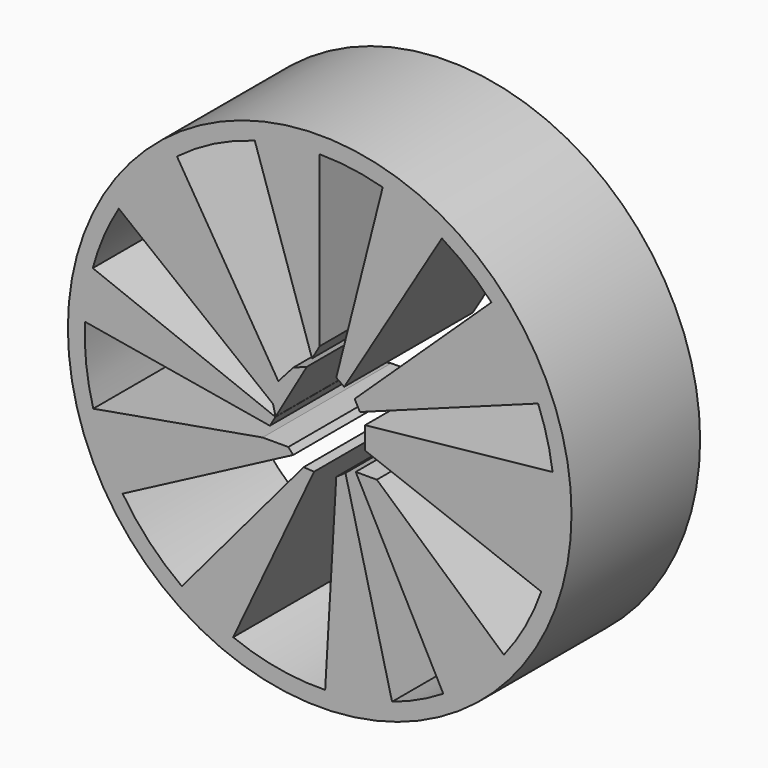
from build123d import *

# Parameters (mm, degrees)
F0_R     = 52.125882
F1_DEPTH = 25.4
F2_DEPTH = 33.274


with BuildPart() as f1:
    # F0 (on Front) → F1 (new body)
    with BuildSketch(Plane.XZ):
        Circle(F0_R)
        with BuildLine():
            ThreePointArc((-29.54728, 38.623906), (-21.869722, 43.434584), (-13.433032, 46.737582))
            Line((-13.433032, 46.737582), (-1.59367, 10.894723))
            Line((-1.59367, 10.894723), (0, 13.65504))
            Line((0, 13.65504), (0, 48.629702))
            ThreePointArc((0, 48.629702), (6.581244, 48.182311), (13.041393, 46.848372))
            Line((13.041393, 46.848372), (3.428603, 9.040482))
            Line((3.428603, 9.040482), (5.077647, 7.902229))
            Line((5.077647, 7.902229), (25.287537, 41.537794))
            ThreePointArc((25.287537, 41.537794), (30.701326, 37.713081), (35.544702, 33.187679))
            Line((35.544702, 33.187679), (7.237199, 6.411599))
            Line((7.237199, 6.411599), (8.312519, 4.362747))
            Line((8.312519, 4.362747), (45.2105, 17.912525))
            ThreePointArc((45.2105, 17.912525), (47.060494, 12.253888), (48.205179, 6.411599))
            Line((48.205179, 6.411599), (9.38784, 2.313895))
            Line((9.38784, 2.313895), (9.38784, -2.313895))
            Line((9.38784, -2.313895), (45.869774, -16.149667))
            ThreePointArc((45.869774, -16.149667), (42.578215, -23.493478), (38.120569, -30.193875))
            Line((38.120569, -30.193875), (11.825612, -6.82752))
            Line((11.825612, -6.82752), (7.455491, -6.82752))
            Line((7.455491, -6.82752), (25.578987, -41.358957))
            ThreePointArc((25.578987, -41.358957), (20.427107, -44.131408), (14.979568, -46.26511))
            Line((14.979568, -46.26511), (5.332901, -7.726041))
            Line((5.332901, -7.726041), (3.428603, -9.040482))
            Line((3.428603, -9.040482), (1.131579, -48.616534))
            ThreePointArc((1.131579, -48.616534), (-8.56156, -47.870111), (-17.912526, -45.2105))
            Line((-17.912526, -45.2105), (-1.165445, -9.598301))
            Line((-1.165445, -9.598301), (-3.328974, -9.472728))
            Line((-3.328974, -9.472728), (-28.533047, -39.379095))
            ThreePointArc((-28.533047, -39.379095), (-35.254919, -33.495351), (-40.787111, -26.481304))
            Line((-40.787111, -26.481304), (-5.492503, -7.957264))
            Line((-5.492503, -7.957264), (-6.493369, -6.82752))
            Line((-6.493369, -6.82752), (-11.825612, -6.82752))
            Line((-11.825612, -6.82752), (-46.866876, -12.974737))
            ThreePointArc((-46.866876, -12.974737), (-48.329136, -5.398378), (-48.574621, 2.313895))
            Line((-48.574621, 2.313895), (-10.306538, -4.196407))
            Line((-10.306538, -4.196407), (-9.168701, -2.225616))
            Line((-9.168701, -2.225616), (-46.9696, 12.597799))
            ThreePointArc((-46.9696, 12.597799), (-44.725359, 19.091624), (-41.588324, 25.204348))
            Line((-41.588324, 25.204348), (-9.668797, 0))
            Line((-9.668797, 0), (-8.561295, 4.493314))
            Line((-8.561295, 4.493314), (-29.54728, 38.623906))
        make_face(mode=Mode.SUBTRACT)
    extrude(amount=F1_DEPTH)

    # F0 (on Front) → F2 (join)
    with BuildSketch(Plane.XZ):
        Circle(F0_R)
        with BuildLine():
            ThreePointArc((-29.54728, 38.623906), (-21.869722, 43.434584), (-13.433032, 46.737582))
            Line((-13.433032, 46.737582), (-1.59367, 10.894723))
            Line((-1.59367, 10.894723), (0, 13.65504))
            Line((0, 13.65504), (0, 48.629702))
            ThreePointArc((0, 48.629702), (6.581244, 48.182311), (13.041393, 46.848372))
            Line((13.041393, 46.848372), (3.428603, 9.040482))
            Line((3.428603, 9.040482), (5.077647, 7.902229))
            Line((5.077647, 7.902229), (25.287537, 41.537794))
            ThreePointArc((25.287537, 41.537794), (30.701326, 37.713081), (35.544702, 33.187679))
            Line((35.544702, 33.187679), (7.237199, 6.411599))
            Line((7.237199, 6.411599), (8.312519, 4.362747))
            Line((8.312519, 4.362747), (45.2105, 17.912525))
            ThreePointArc((45.2105, 17.912525), (47.060494, 12.253888), (48.205179, 6.411599))
            Line((48.205179, 6.411599), (9.38784, 2.313895))
            Line((9.38784, 2.313895), (9.38784, -2.313895))
            Line((9.38784, -2.313895), (45.869774, -16.149667))
            ThreePointArc((45.869774, -16.149667), (42.578215, -23.493478), (38.120569, -30.193875))
            Line((38.120569, -30.193875), (11.825612, -6.82752))
            Line((11.825612, -6.82752), (7.455491, -6.82752))
            Line((7.455491, -6.82752), (25.578987, -41.358957))
            ThreePointArc((25.578987, -41.358957), (20.427107, -44.131408), (14.979568, -46.26511))
            Line((14.979568, -46.26511), (5.332901, -7.726041))
            Line((5.332901, -7.726041), (3.428603, -9.040482))
            Line((3.428603, -9.040482), (1.131579, -48.616534))
            ThreePointArc((1.131579, -48.616534), (-8.56156, -47.870111), (-17.912526, -45.2105))
            Line((-17.912526, -45.2105), (-1.165445, -9.598301))
            Line((-1.165445, -9.598301), (-3.328974, -9.472728))
            Line((-3.328974, -9.472728), (-28.533047, -39.379095))
            ThreePointArc((-28.533047, -39.379095), (-35.254919, -33.495351), (-40.787111, -26.481304))
            Line((-40.787111, -26.481304), (-5.492503, -7.957264))
            Line((-5.492503, -7.957264), (-6.493369, -6.82752))
            Line((-6.493369, -6.82752), (-11.825612, -6.82752))
            Line((-11.825612, -6.82752), (-46.866876, -12.974737))
            ThreePointArc((-46.866876, -12.974737), (-48.329136, -5.398378), (-48.574621, 2.313895))
            Line((-48.574621, 2.313895), (-10.306538, -4.196407))
            Line((-10.306538, -4.196407), (-9.168701, -2.225616))
            Line((-9.168701, -2.225616), (-46.9696, 12.597799))
            ThreePointArc((-46.9696, 12.597799), (-44.725359, 19.091624), (-41.588324, 25.204348))
            Line((-41.588324, 25.204348), (-9.668797, 0))
            Line((-9.668797, 0), (-8.561295, 4.493314))
            Line((-8.561295, 4.493314), (-29.54728, 38.623906))
        make_face(mode=Mode.SUBTRACT)
        Polygon((-5.492503, 7.957264), (-8.561295, 4.493314), (-9.668797, 0), (-9.134733, -2.166782), (-2.672045, 9.026923), align=None)
    extrude(amount=F2_DEPTH)


solid = f1.part
